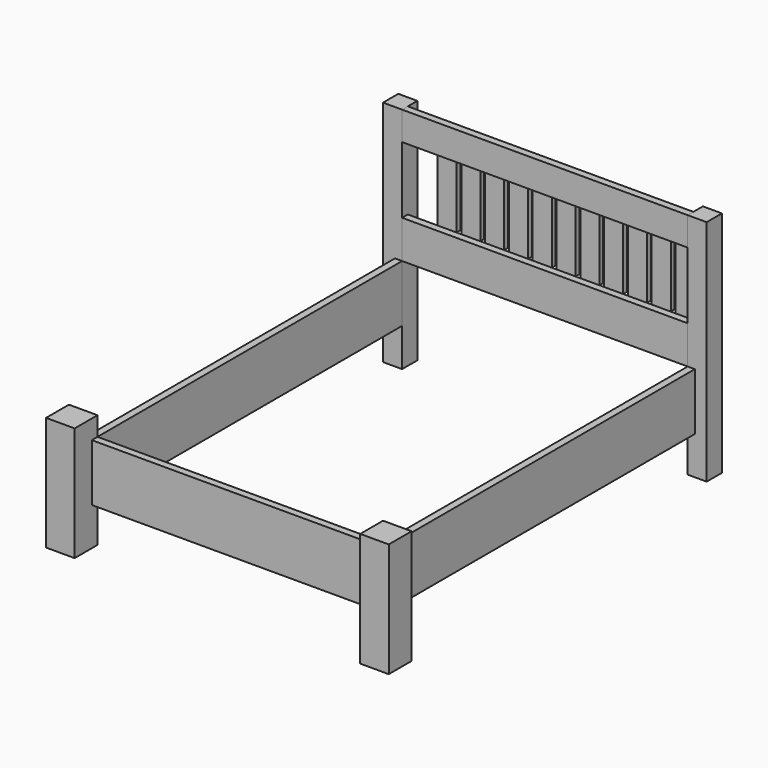
from build123d import *

# Parameters (mm, degrees)
F0_W      = 101.6
F0_H      = 101.6
F1_DEPTH  = 1219.2
F2_W      = 1524
F2_H      = 152.4
F2_H_2    = 203.2
F3_DEPTH  = 38.1
F4_W      = 88.9
F4_H      = 355.6
F4_W_2    = 101.6
F5_DEPTH  = 25.4
F6_W      = 38.1
F6_H      = 304.8
F7_DEPTH  = 2032
F8_W      = 1600.2
F8_H      = 304.8
F9_DEPTH  = 38.1
F10_W     = 152.4
F10_H     = 152.4
F11_DEPTH = 609.6


with BuildPart() as f1:
    # F0 (on Top) → F1 (new body)
    with BuildSketch(Plane.XY):
        with Locations((-812.8, 50.8)):
            Rectangle(F0_W, F0_H)
        with Locations((812.8, 50.8)):
            Rectangle(F0_W, F0_H)
    extrude(amount=F1_DEPTH)


with BuildPart() as f3:
    # F2 (on face) → F3 (new body)
    with BuildSketch(Plane.XZ):
        with Locations((0, 1143)):
            Rectangle(F2_W, F2_H)
        with Locations((0, 609.6)):
            Rectangle(F2_W, F2_H_2)
    extrude(amount=-F3_DEPTH)


with BuildPart() as f5:
    # F4 (on face) → F5 (new body)
    with BuildSketch(Plane(origin=(0, 38.1, 0), x_dir=(-1, 0, 0), z_dir=(0, 1, 0))):
        with Locations((-711.2, 889)):
            Rectangle(F4_W, F4_H)
        with Locations((-590.55, 889)):
            Rectangle(F4_W_2, F4_H)
        with Locations((-463.55, 889)):
            Rectangle(F4_W_2, F4_H)
        with Locations((-336.55, 889)):
            Rectangle(F4_W_2, F4_H)
        with Locations((-209.55, 889)):
            Rectangle(F4_W_2, F4_H)
        with Locations((-82.55, 889)):
            Rectangle(F4_W_2, F4_H)
        with Locations((44.45, 889)):
            Rectangle(F4_W_2, F4_H)
        with Locations((171.45, 889)):
            Rectangle(F4_W_2, F4_H)
        with Locations((298.45, 889)):
            Rectangle(F4_W_2, F4_H)
        with Locations((425.45, 889)):
            Rectangle(F4_W_2, F4_H)
        with Locations((552.45, 889)):
            Rectangle(F4_W_2, F4_H)
    extrude(amount=F5_DEPTH)


with BuildPart() as f7:
    # F6 (on face) → F7 (new body)
    with BuildSketch(Plane.XZ):
        with Locations((-781.05, 355.6)):
            Rectangle(F6_W, F6_H)
        with Locations((781.05, 355.6)):
            Rectangle(F6_W, F6_H)
    extrude(amount=F7_DEPTH)


with BuildPart() as f9:
    # F8 (on face) → F9 (new body)
    with BuildSketch(Plane.XZ.offset(2032)):
        with Locations((0, 355.6)):
            Rectangle(F8_W, F8_H)
    extrude(amount=F9_DEPTH)


with BuildPart() as f11:
    # F10 (on Top) → F11 (new body)
    with BuildSketch(Plane.XY):
        with Locations((-838.2, -2108.2)):
            Rectangle(F10_W, F10_H)
        with Locations((838.2, -2108.2)):
            Rectangle(F10_W, F10_H)
    extrude(amount=F11_DEPTH)


solid = Compound([f1.part, f3.part, f5.part, f7.part, f9.part, f11.part])
